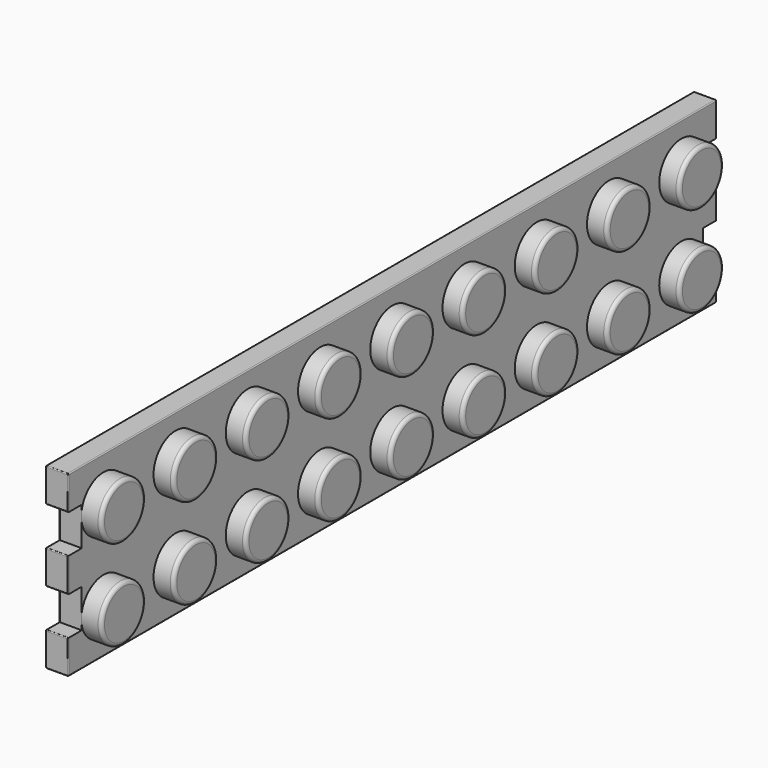
from build123d import *

# Parameters (mm, degrees)
SKETCH001_W                     = 71.8
SKETCH001_H                     = 15.8
PAD001_DEPTH                    = 2
SKETCH002_W                     = 1.5
SKETCH002_H                     = 3.4
POCKET_DEPTH                    = 5
LINEARPATTERN001_COUNT          = 2
LINEARPATTERN001_PITCH          = 70.3
SKETCH003_R                     = 2.45
PAD002_DEPTH                    = 1.8
SKETCH003_LINEARPATTERN002_2_R  = 2.45
PAD002_LINEARPATTERN002_2_DEPTH = 1.8
SKETCH003_LINEARPATTERN002_3_R  = 2.45
PAD002_LINEARPATTERN002_3_DEPTH = 1.8
SKETCH003_LINEARPATTERN002_4_R  = 2.45
PAD002_LINEARPATTERN002_4_DEPTH = 1.8
SKETCH003_LINEARPATTERN002_5_R  = 2.45
PAD002_LINEARPATTERN002_5_DEPTH = 1.8
SKETCH003_LINEARPATTERN002_6_R  = 2.45
PAD002_LINEARPATTERN002_6_DEPTH = 1.8
SKETCH003_LINEARPATTERN002_7_R  = 2.45
PAD002_LINEARPATTERN002_7_DEPTH = 1.8
SKETCH003_LINEARPATTERN002_8_R  = 2.45
PAD002_LINEARPATTERN002_8_DEPTH = 1.8
SKETCH003_LINEARPATTERN002_9_R  = 2.45
PAD002_LINEARPATTERN002_9_DEPTH = 1.8
FILLET_R                        = 0.32
FILLET008_R                     = 0.08


with BuildPart() as part:
    # Sketch001 → Pad001 (new body)
    with BuildSketch(Plane.YZ):
        with Locations((-20, 0)):
            Rectangle(SKETCH001_W, SKETCH001_H)
    extrude(amount=-PAD001_DEPTH)

    # Sketch002 (on Face5 of Pad001) → Pocket (cut)
    with BuildSketch(Plane.YZ):
        with Locations((15.15, 3.2)):
            Rectangle(SKETCH002_W, SKETCH002_H)
        with Locations((15.15, -3.2)):
            Rectangle(SKETCH002_W, SKETCH002_H)
    pocket = extrude(amount=-POCKET_DEPTH, mode=Mode.SUBTRACT)

    # LinearPattern001: Pocket ×2
    with Locations(*[(0, -i * LINEARPATTERN001_PITCH, 0) for i in range(1, LINEARPATTERN001_COUNT)]):
        add(pocket, mode=Mode.SUBTRACT)

    # Sketch003 (on Face4 of LinearPattern001) → Pad002 (join)
    with BuildSketch(Plane.YZ):
        with Locations((12, -4)):
            Circle(SKETCH003_R)
    pad002 = extrude(amount=PAD002_DEPTH)

    # Sketch003 LinearPattern002 2 → Pad002 LinearPattern002 2 (add)
    with BuildSketch(Plane(origin=(0, -8, 0), x_dir=(0, 1, 0), z_dir=(1, 0, 0))):
        with Locations((12, -4)):
            Circle(SKETCH003_LINEARPATTERN002_2_R)
    pad002_linearpattern002_2 = extrude(amount=PAD002_LINEARPATTERN002_2_DEPTH)

    # Sketch003 LinearPattern002 3 → Pad002 LinearPattern002 3 (add)
    with BuildSketch(Plane(origin=(0, -16, 0), x_dir=(0, 1, 0), z_dir=(1, 0, 0))):
        with Locations((12, -4)):
            Circle(SKETCH003_LINEARPATTERN002_3_R)
    pad002_linearpattern002_3 = extrude(amount=PAD002_LINEARPATTERN002_3_DEPTH)

    # Sketch003 LinearPattern002 4 → Pad002 LinearPattern002 4 (add)
    with BuildSketch(Plane(origin=(0, -24, 0), x_dir=(0, 1, 0), z_dir=(1, 0, 0))):
        with Locations((12, -4)):
            Circle(SKETCH003_LINEARPATTERN002_4_R)
    pad002_linearpattern002_4 = extrude(amount=PAD002_LINEARPATTERN002_4_DEPTH)

    # Sketch003 LinearPattern002 5 → Pad002 LinearPattern002 5 (add)
    with BuildSketch(Plane(origin=(0, -32, 0), x_dir=(0, 1, 0), z_dir=(1, 0, 0))):
        with Locations((12, -4)):
            Circle(SKETCH003_LINEARPATTERN002_5_R)
    pad002_linearpattern002_5 = extrude(amount=PAD002_LINEARPATTERN002_5_DEPTH)

    # Sketch003 LinearPattern002 6 → Pad002 LinearPattern002 6 (add)
    with BuildSketch(Plane(origin=(0, -40, 0), x_dir=(0, 1, 0), z_dir=(1, 0, 0))):
        with Locations((12, -4)):
            Circle(SKETCH003_LINEARPATTERN002_6_R)
    pad002_linearpattern002_6 = extrude(amount=PAD002_LINEARPATTERN002_6_DEPTH)

    # Sketch003 LinearPattern002 7 → Pad002 LinearPattern002 7 (add)
    with BuildSketch(Plane(origin=(0, -48, 0), x_dir=(0, 1, 0), z_dir=(1, 0, 0))):
        with Locations((12, -4)):
            Circle(SKETCH003_LINEARPATTERN002_7_R)
    pad002_linearpattern002_7 = extrude(amount=PAD002_LINEARPATTERN002_7_DEPTH)

    # Sketch003 LinearPattern002 8 → Pad002 LinearPattern002 8 (add)
    with BuildSketch(Plane(origin=(0, -56, 0), x_dir=(0, 1, 0), z_dir=(1, 0, 0))):
        with Locations((12, -4)):
            Circle(SKETCH003_LINEARPATTERN002_8_R)
    pad002_linearpattern002_8 = extrude(amount=PAD002_LINEARPATTERN002_8_DEPTH)

    # Sketch003 LinearPattern002 9 → Pad002 LinearPattern002 9 (add)
    with BuildSketch(Plane(origin=(0, -64, 0), x_dir=(0, 1, 0), z_dir=(1, 0, 0))):
        with Locations((12, -4)):
            Circle(SKETCH003_LINEARPATTERN002_9_R)
    pad002_linearpattern002_9 = extrude(amount=PAD002_LINEARPATTERN002_9_DEPTH)

    # Mirrored: Pad002, Pad002 LinearPattern002 2, Pad002 LinearPattern002 3, Pad002 LinearPattern002 4, Pad002 LinearPattern002 5, Pad002 LinearPattern002 6, Pad002 LinearPattern002 7, Pad002 LinearPattern002 8, Pad002 LinearPattern002 9 across Sketch003 H_Axis
    add(pad002.mirror(Plane.XY))
    add(pad002_linearpattern002_2.mirror(Plane.XY))
    add(pad002_linearpattern002_3.mirror(Plane.XY))
    add(pad002_linearpattern002_4.mirror(Plane.XY))
    add(pad002_linearpattern002_5.mirror(Plane.XY))
    add(pad002_linearpattern002_6.mirror(Plane.XY))
    add(pad002_linearpattern002_7.mirror(Plane.XY))
    add(pad002_linearpattern002_8.mirror(Plane.XY))
    add(pad002_linearpattern002_9.mirror(Plane.XY))

    # Fillet
    fillet_edges = [part.edges().sort_by_distance(p)[0] for p in [
        (1.8, -54.45, 4),
        (1.8, -54.45, -4),
        (1.8, -46.45, -4),
        (1.8, -46.45, 4),
        (1.8, -38.45, 4),
        (1.8, -38.45, -4),
        (1.8, -30.45, -4),
        (1.8, -30.45, 4),
        (1.8, -22.45, 4),
        (1.8, -22.45, -4),
        (1.8, -14.45, -4),
        (1.8, -14.45, 4),
        (1.8, -6.45, 4),
        (1.8, -6.45, -4),
        (1.8, 1.55, -4),
        (1.8, 1.55, 4),
        (1.8, 9.55, 4),
        (1.8, 9.55, -4),
    ]]
    fillet(fillet_edges, radius=FILLET_R)

    # Fillet008
    fillet008_edges = [part.edges().sort_by_distance(p)[0] for p in [
        (-1, -55.9, 7.9),
        (-1, 15.9, 7.9),
        (0, -20, 7.9),
        (-2, -20, 7.9),
        (-1, 15.9, -7.9),
        (-1, -55.9, -7.9),
        (0, -20, -7.9),
        (-2, -20, -7.9),
        (0, 15.9, -6.4),
        (-2, 15.9, -6.4),
        (-1, 15.9, -4.9),
        (0, 15.9, 0),
        (-1, 15.9, -1.5),
        (-2, 15.9, 0),
        (-1, 15.9, 1.5),
        (0, 15.9, 6.4),
        (-1, 15.9, 4.9),
        (-2, 15.9, 6.4),
        (0, -55.9, -6.4),
        (-1, -55.9, -4.9),
        (-2, -55.9, -6.4),
        (0, -55.9, 0),
        (-1, -55.9, 1.5),
        (-2, -55.9, 0),
        (-1, -55.9, -1.5),
        (0, -55.9, 6.4),
        (-2, -55.9, 6.4),
        (-1, -55.9, 4.9),
        (-2, 15.15, -4.9),
        (-2, 14.4, -3.2),
        (-2, 15.15, -1.5),
        (-2, 15.15, 1.5),
        (-2, 14.4, 3.2),
        (-2, 15.15, 4.9),
        (-2, -55.15, 4.9),
        (-2, -54.4, 3.2),
        (-2, -55.15, 1.5),
        (-2, -55.15, -1.5),
        (-2, -54.4, -3.2),
        (-2, -55.15, -4.9),
    ]]
    fillet(fillet008_edges, radius=FILLET008_R)


with BuildPart() as part_1:
    # Body001 placement: moved
    add(part.part.moved(Location((13.4, 0, 0))))


solid = part_1.part
